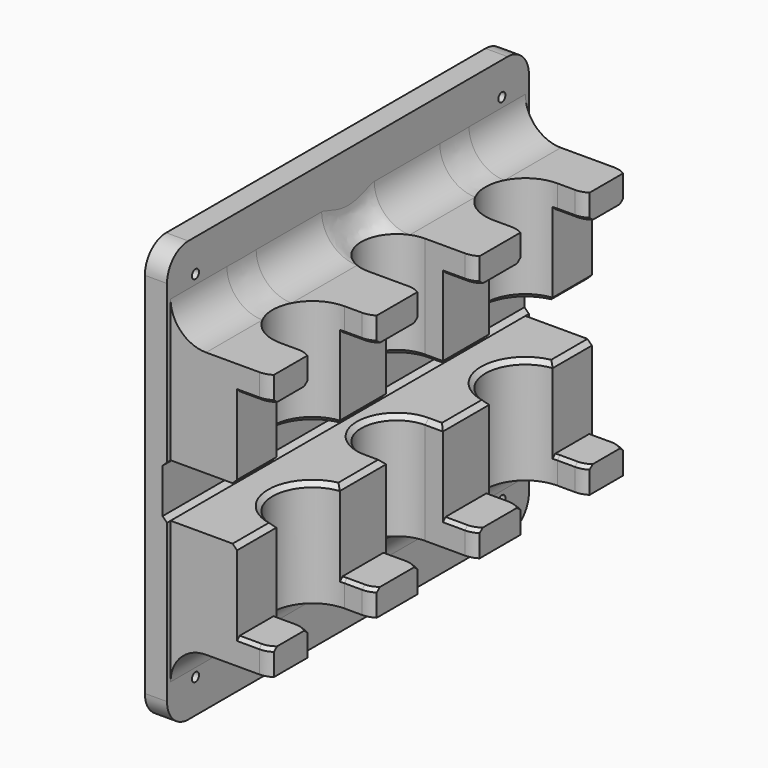
from build123d import *

# Parameters (mm, degrees)
SKETCH126_W             = 60
SKETCH126_H             = 30
PAD048_DEPTH            = 50
PAD048_DEPTH_BACK       = 50
SKETCH128_W             = 102
SKETCH128_H             = 95
PAD049_DEPTH            = 5
POCKET042_DEPTH         = 102
POCKET042_DEPTH_BACK    = 14
POCKET043_DEPTH         = 50
POCKET043_DEPTH_BACK    = 100
FILLET051_R             = 5
FILLET052_R             = 8
FILLET053_R             = 6
CHAMFER007_SIZE         = 1
CHAMFER008_SIZE         = 0.75
SKETCH130_R             = 1
POCKET044_DEPTH         = 30.001
CHAMFER009_SIZE         = 1
SKETCH146_W             = 130.030808
SKETCH146_H             = 16.811765
POCKET055_DEPTH         = 250
BODY055_ROLL_ANGLE      = -90
BODY055_PLACEMENT_ANGLE = 90


with BuildPart() as part:
    # Sketch126 → Pad048 (new body, two sides)
    with BuildSketch(Plane.YZ) as pad048_sk:
        with Locations((0, -15)):
            Rectangle(SKETCH126_W, SKETCH126_H)
    extrude(amount=PAD048_DEPTH)
    extrude(pad048_sk.sketch, amount=-PAD048_DEPTH_BACK)

    # Sketch128 → Pad049 (join)
    with BuildSketch(Plane.XY):
        Rectangle(SKETCH128_W, SKETCH128_H)
    extrude(amount=-PAD049_DEPTH)

    # Sketch127 (on Face5 of Pad048) → Pocket042 (cut, two sides)
    with BuildSketch(Plane(origin=(-50, 0, 0), x_dir=(0, 1, 0), z_dir=(-1, 0, 0))) as pocket042_sk:
        Polygon((24.25, 32.2), (-24.25, 32.2), (-24.25, 20), (-6, 20), (-6, 4), (6, 4), (6, 20), (24.25, 20), align=None)
    extrude(amount=-POCKET042_DEPTH, mode=Mode.SUBTRACT)
    extrude(pocket042_sk.sketch, amount=POCKET042_DEPTH_BACK, mode=Mode.SUBTRACT)

    # Sketch129 → Pocket043 (cut, two sides)
    with BuildSketch(Plane.XZ) as pocket043_sk:
        with BuildLine():
            Line((-39, -30), (-39, -21))
            ThreePointArc((-21, -21), (-30, -12), (-39, -21))
            Line((-21, -21), (-21, -30))
            Line((-39, -30), (-21, -30))
        make_face()
        with BuildLine():
            ThreePointArc((39, -21), (30, -12), (21, -21))
            Line((21, -21), (21, -30))
            Line((39, -30), (21, -30))
            Line((39, -21), (39, -30))
        make_face()
        with BuildLine():
            ThreePointArc((8, -16), (0, -8), (-8, -16))
            Line((-8, -16), (-8, -30))
            Line((-8, -30), (8, -30))
            Line((8, -16), (8, -30))
        make_face()
    extrude(amount=-POCKET043_DEPTH, mode=Mode.SUBTRACT)
    extrude(pocket043_sk.sketch, amount=POCKET043_DEPTH_BACK, mode=Mode.SUBTRACT)

    # Fillet051
    fillet051_edges = [part.edges().sort_by_distance(p)[0] for p in [
        (39, 27.125, -30),
        (50, 27.125, -30),
        (21, 27.125, -30),
        (8, 27.125, -30),
        (-8, 27.125, -30),
        (-21, 27.125, -30),
        (-39, 27.125, -30),
        (-50, 27.125, -30),
        (-50, -27.125, -30),
        (-39, -27.125, -30),
        (-21, -27.125, -30),
        (-8, -27.125, -30),
        (8, -27.125, -30),
        (21, -27.125, -30),
        (39, -27.125, -30),
        (50, -27.125, -30),
    ]]
    fillet(fillet051_edges, radius=FILLET051_R)

    # Fillet052
    fillet052_edges = [part.edges().sort_by_distance(p)[0] for p in [
        (0, 30, -5),
        (0, -30, -5),
    ]]
    fillet(fillet052_edges, radius=FILLET052_R)

    # Fillet053
    fillet053_edges = [part.edges().sort_by_distance(p)[0] for p in [
        (-51, 47.5, -2.5),
        (51, 47.5, -2.5),
        (-51, -47.5, -2.5),
        (51, -47.5, -2.5),
    ]]
    fillet(fillet053_edges, radius=FILLET053_R)

    # Chamfer007
    chamfer007_edges = [part.edges().sort_by_distance(p)[0] for p in [
        (44.472136, -6, -20),
        (30, -6, -12),
        (14.527864, -6, -20),
        (0, -6, -8),
        (-14.527864, -6, -20),
        (-30, -6, -12),
        (-44.472136, -6, -20),
        (-44.472136, 6, -20),
        (-30, 6, -12),
        (-14.527864, 6, -20),
        (0, 6, -8),
        (14.527864, 6, -20),
        (30, 6, -12),
        (44.472136, 6, -20),
    ]]
    chamfer(chamfer007_edges, length=CHAMFER007_SIZE)

    # Chamfer008
    chamfer008_edges = [part.edges().sort_by_distance(p)[0] for p in [
        (48.535534, 24.25, -28.535534),
        (19.535534, 24.25, -28.535534),
        (-9.464466, 24.25, -28.535534),
        (-40.464466, 24.25, -28.535534),
        (-40.464466, -24.25, -28.535534),
        (-9.464466, -24.25, -28.535534),
        (19.535534, -24.25, -28.535534),
        (48.535534, -24.25, -28.535534),
    ]]
    chamfer(chamfer008_edges, length=CHAMFER008_SIZE)

    # Sketch130 → Pocket044 (cut, through all)
    with BuildSketch(Plane.XY):
        with Locations((43.38, 39.88)):
            Circle(SKETCH130_R)
        with Locations((43.38, -40.12)):
            Circle(SKETCH130_R)
        with Locations((-42.98, 39.88)):
            Circle(SKETCH130_R)
        with Locations((-42.98, -40.12)):
            Circle(SKETCH130_R)
    extrude(amount=-POCKET044_DEPTH, mode=Mode.SUBTRACT)

    # Chamfer009
    chamfer009_edges = [part.edges().sort_by_distance(p)[0] for p in [
        (0, -6, -4),
        (0, 6, -4),
    ]]
    chamfer(chamfer009_edges, length=CHAMFER009_SIZE)

    # Sketch146 → Pocket055 (cut, symmetric)
    with BuildSketch(Plane.XZ):
        with Locations((6.963997, -36.0777)):
            Rectangle(SKETCH146_W, SKETCH146_H)
    extrude(amount=POCKET055_DEPTH, both=True, mode=Mode.SUBTRACT)


with BuildPart() as part_1:
    # Body055 roll: moved
    add(part.part.rotate(Axis((0, 0, 0), (1, 0, 0)), BODY055_ROLL_ANGLE))


with BuildPart() as part_2:
    # Body055 placement: moved
    add(part_1.part.moved(Location((-74, 0, 0))).rotate(Axis((-74, 0, 0), (0, 0, 1)), BODY055_PLACEMENT_ANGLE))


solid = part_2.part
